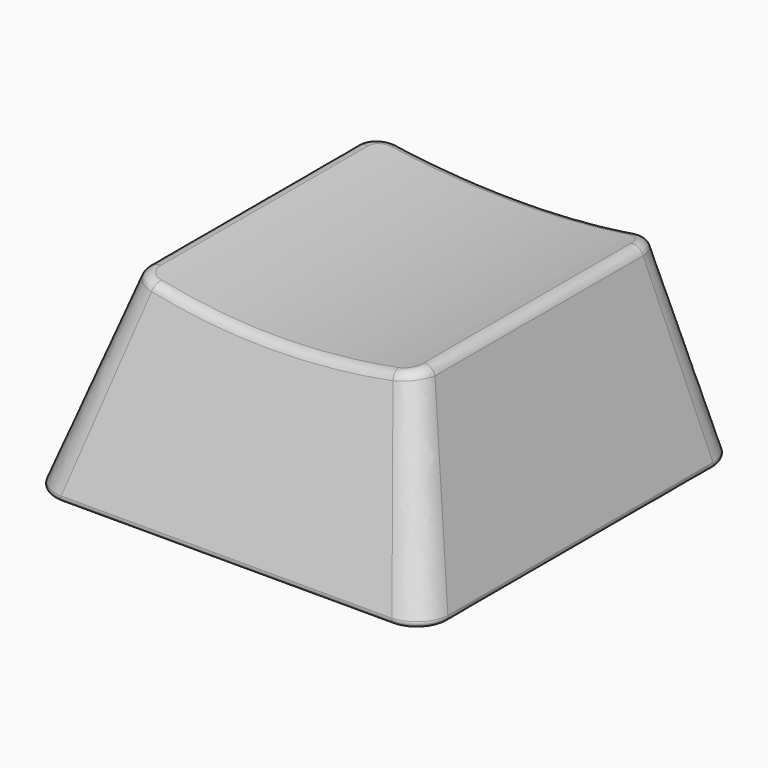
from build123d import *

# Parameters (mm, degrees)
SKETCH002_R       = 35
POCKET_DEPTH      = 12
POCKET_DEPTH_BACK = 100
FILLET_R          = 0.5
FILLET001_R       = 0.2
PAD_DEPTH         = 5.5
FILLET002_R       = 0.5
FILLET003_R       = 0.2
SKETCH006_W       = 1.04
SKETCH006_H       = 1
PAD001_DEPTH      = 0.2
CHAMFER_SIZE      = 0.19
SKETCH007_R       = 0.5
POCKET001_DEPTH   = 1


with BuildPart() as part:
    # Sketch → AdditiveLoft section 0
    with BuildSketch(Plane.XY):
        with BuildLine():
            Line((-8, 9.5), (8, 9.5))
            ThreePointArc((9.5, 8), (9.06066, 9.06066), (8, 9.5))
            Line((9.5, 8), (9.5, -8))
            ThreePointArc((8, -9.5), (9.06066, -9.06066), (9.5, -8))
            Line((8, -9.5), (-8, -9.5))
            ThreePointArc((-9.5, -8), (-9.06066, -9.06066), (-8, -9.5))
            Line((-9.5, -8), (-9.5, 8))
            ThreePointArc((-8, 9.5), (-9.06066, 9.06066), (-9.5, 8))
        make_face()
    # Sketch001 (on DatumPlane) → AdditiveLoft section 1
    with BuildSketch(Plane.XY.offset(9)):
        with BuildLine():
            Line((-5.65, 8), (5.65, 8))
            ThreePointArc((6.75, 6.9), (6.427817, 7.677817), (5.65, 8))
            Line((6.75, 6.9), (6.75, -5.4))
            ThreePointArc((5.65, -6.5), (6.427817, -6.177817), (6.75, -5.4))
            Line((5.65, -6.5), (-5.65, -6.5))
            ThreePointArc((-6.75, -5.4), (-6.427817, -6.177817), (-5.65, -6.5))
            Line((-6.75, -5.4), (-6.75, 6.9))
            ThreePointArc((-5.65, 8), (-6.427817, 7.677817), (-6.75, 6.9))
        make_face()
    loft()

    # Sketch002 → Pocket (cut, two sides)
    with BuildSketch(Plane.XZ) as pocket_sk:
        with Locations((0, 43.34294)):
            Circle(SKETCH002_R)
    extrude(amount=-POCKET_DEPTH, mode=Mode.SUBTRACT)
    extrude(pocket_sk.sketch, amount=POCKET_DEPTH_BACK, mode=Mode.SUBTRACT)

    # Fillet
    fillet_edges = [part.edges().sort_by_distance(p)[0] for p in [
        (0, -6.71902, 8.34294),
    ]]
    fillet(fillet_edges, radius=FILLET_R)

    # Sketch003 (on Face4 of Fillet) → SubtractiveLoft section 0
    with BuildSketch(Plane(origin=(0, 0, 0), x_dir=(1, 0, 0), z_dir=(0, 0, -1))):
        with BuildLine():
            Line((7.75, 8.25), (-7.75, 8.25))
            ThreePointArc((-7.75, 8.25), (-8.103553, 8.103553), (-8.25, 7.75))
            Line((-8.25, 7.75), (-8.25, -7.75))
            ThreePointArc((-8.25, -7.75), (-8.103553, -8.103553), (-7.75, -8.25))
            Line((-7.75, -8.25), (7.75, -8.25))
            ThreePointArc((7.75, -8.25), (8.103553, -8.103553), (8.25, -7.75))
            Line((8.25, -7.75), (8.25, 7.75))
            ThreePointArc((8.25, 7.75), (8.103553, 8.103553), (7.75, 8.25))
        make_face()
    # Sketch004 (on DatumPlane) → SubtractiveLoft section 1
    with BuildSketch(Plane(origin=(0, 0, 7), x_dir=(1, 0, 0), z_dir=(0, 0, -1))):
        with BuildLine():
            Line((-5.8, 5.925), (5.8, 5.925))
            ThreePointArc((6.1, 5.625), (6.012132, 5.837132), (5.8, 5.925))
            Line((6.1, 5.625), (6.1, -6.8))
            ThreePointArc((5.8, -7.1), (6.012132, -7.012132), (6.1, -6.8))
            Line((5.8, -7.1), (-5.8, -7.1))
            ThreePointArc((-6.1, -6.8), (-6.012132, -7.012132), (-5.8, -7.1))
            Line((-6.1, -6.8), (-6.1, 5.625))
            ThreePointArc((-5.8, 5.925), (-6.012132, 5.837132), (-6.1, 5.625))
        make_face()
    loft(mode=Mode.SUBTRACT)

    # Fillet001
    fillet001_edges = [part.edges().sort_by_distance(p)[0] for p in [
        (8.25, 0, 0),
        (0, 9.5, 0),
    ]]
    fillet(fillet001_edges, radius=FILLET001_R)

    # Sketch005 (on Face43 of Fillet001) → Pad (join)
    with BuildSketch(Plane(origin=(0, 0, 7), x_dir=(1, 0, 0), z_dir=(0, 0, -1))):
        Polygon((-0.52, 1.9), (-0.52, 0.6), (-2.2, 0.6), (-2.2, -0.6), (-0.52, -0.6), (-0.52, -2.05), (-3.1, -2.05), (-3.1, 2.05), (-0.52, 2.9), (0, 2.9), (0, 1.9), align=None)
    pad = extrude(amount=PAD_DEPTH)

    # Mirrored: Pad across Sketch005 V_Axis
    add(pad.mirror(Plane(origin=(0, 0, 7), x_dir=(0, 0, -1), z_dir=(1, 0, 0))))

    # Fillet002
    fillet002_edges = [part.edges().sort_by_distance(p)[0] for p in [
        (1.81, -2.475, 7),
        (3.1, 0, 7),
        (1.81, 2.05, 7),
        (-1.81, 2.05, 7),
        (-3.1, 0, 7),
        (-1.81, -2.475, 7),
        (-0.26, -2.9, 7),
        (0.26, -2.9, 7),
    ]]
    fillet(fillet002_edges, radius=FILLET002_R)

    # Fillet003
    fillet003_edges = [part.edges().sort_by_distance(p)[0] for p in [
        (-0.26, -1.9, 1.5),
        (-0.52, -1.25, 1.5),
        (-1.36, -0.6, 1.5),
        (-2.2, 0, 1.5),
        (-1.36, 0.6, 1.5),
        (-0.52, 1.325, 1.5),
        (0.52, 1.325, 1.5),
        (1.36, 0.6, 1.5),
        (2.2, 0, 1.5),
        (1.36, -0.6, 1.5),
        (0.52, -1.25, 1.5),
        (0.26, -1.9, 1.5),
    ]]
    fillet(fillet003_edges, radius=FILLET003_R)

    # Sketch006 (on Face19 of Fillet003) → Pad001 (join)
    with BuildSketch(Plane(origin=(0, -1.9, 0), x_dir=(-1, 0, 0), z_dir=(0, 1, 0))):
        with Locations((0, 3)):
            Rectangle(SKETCH006_W, SKETCH006_H)
    extrude(amount=PAD001_DEPTH)

    # Chamfer
    chamfer_edges = [part.edges().sort_by_distance(p)[0] for p in [
        (0, -1.7, 2.5),
    ]]
    chamfer(chamfer_edges, length=CHAMFER_SIZE)

    # Sketch007 (on Face14 of Chamfer) → Pocket001 (cut)
    with BuildSketch(Plane(origin=(0, 0, 1.5), x_dir=(1, 0, 0), z_dir=(0, 0, -1))):
        with Locations((2.5, 0)):
            Circle(SKETCH007_R)
    extrude(amount=-POCKET001_DEPTH, mode=Mode.SUBTRACT)


solid = part.part
